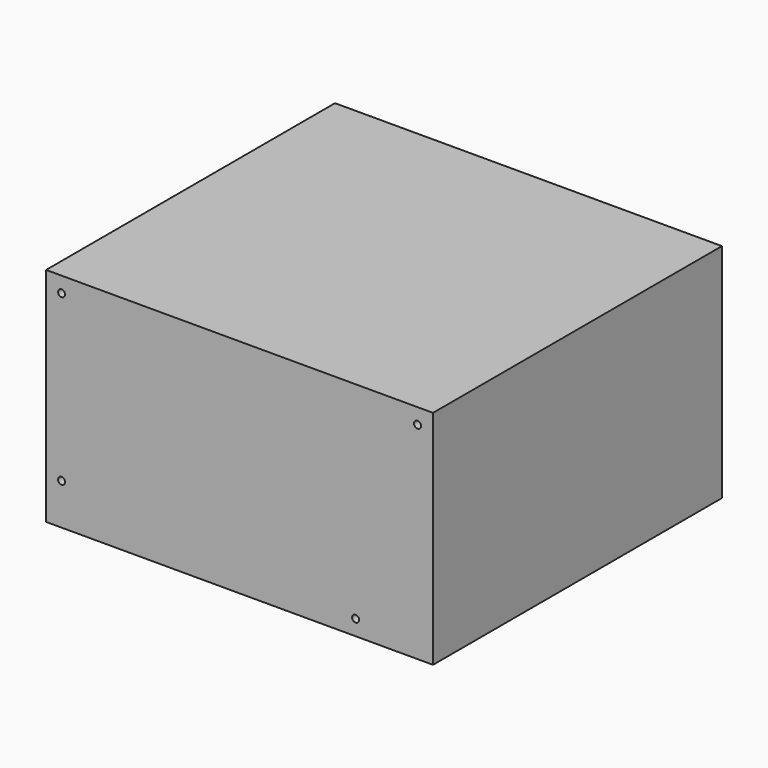
from build123d import *

# Parameters (mm, degrees)
F0_W     = 150
F0_H     = 86
F1_DEPTH = 140
F3_D     = 2.7051
F3_DEPTH = 10.3124
F3_TIP   = 0.8126940303


with BuildPart() as f1:
    # F0 (on Front) → F1 (new body)
    with BuildSketch(Plane.XZ):
        with Locations((-75, 43)):
            Rectangle(F0_W, F0_H)
    extrude(amount=F1_DEPTH)

    # F3
    with Locations(Plane.XZ.offset(140)):
        with Locations((-144, 80), (-30, 6), (-6, 80), (-144, 16)):
            Hole(F3_D / 2, depth=F3_DEPTH)
            with Locations((0, 0, -(F3_DEPTH + F3_TIP / 2))):  # 118° drill point
                Cone(0, F3_D / 2, F3_TIP, mode=Mode.SUBTRACT)


solid = f1.part
